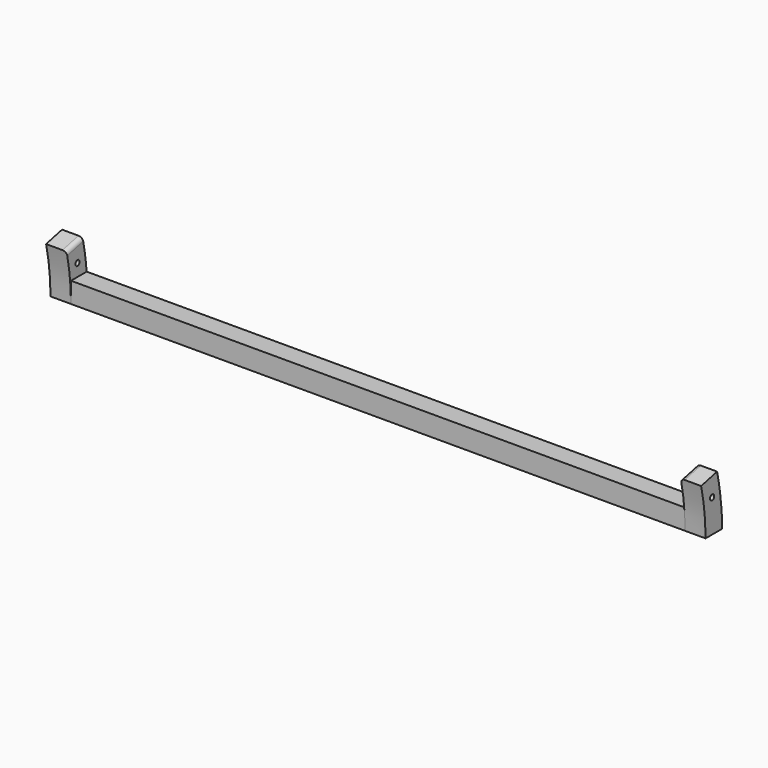
from build123d import *

# Parameters (mm, degrees)
CYLINDER063_R          = 1.3
CYLINDER063_DEPTH      = 331
CYLINDER060_W          = 105
CYLINDER060_H          = 10
CYLINDER060_ANGLE      = 13
CYLINDER059_W          = 115
CYLINDER059_H          = 10
CYLINDER059_ANGLE      = 13
FILLET008_R            = 2
CYLINDER058_W          = 105
CYLINDER058_H          = 352
CYLINDER058_ANGLE      = 13
CYLINDER057_W          = 115
CYLINDER057_H          = 340
CYLINDER057_ANGLE      = 13
BOX102_W               = 320
BOX102_H               = 10
BOX102_DEPTH           = 10
CYLINDER056_W          = 105
CYLINDER056_H          = 10
CYLINDER056_ANGLE      = 13
CYLINDER055_W          = 115
CYLINDER055_H          = 10
CYLINDER055_ANGLE      = 13
FILLET009_R            = 2
CUT074_PLACEMENT_ANGLE = 180


with BuildPart() as cilindro063:
    # Cylinder063 → Cylinder063 (new body)
    with BuildSketch(Plane(origin=(5, 6, 178), x_dir=(0, 0, -1), z_dir=(1, 0, 0))):
        Circle(CYLINDER063_R)
    extrude(amount=CYLINDER063_DEPTH)


with BuildPart() as cilindro060:
    # Cylinder060 → Cylinder060 (revolve)
    with BuildSketch(Plane(origin=(20, 115, 162), x_dir=(0, -1, 0), z_dir=(0, 0, -1))):
        with Locations((52.5, 5)):
            Rectangle(CYLINDER060_W, CYLINDER060_H)
    revolve(axis=Axis((20, 115, 162), (-1, 0, 0)), revolution_arc=CYLINDER060_ANGLE)


with BuildPart() as fillet008:
    # Cylinder059 → Cylinder059 (revolve)
    with BuildSketch(Plane(origin=(20, 115, 162), x_dir=(0, -1, 0), z_dir=(0, 0, -1))):
        with Locations((57.5, 5)):
            Rectangle(CYLINDER059_W, CYLINDER059_H)
    revolve(axis=Axis((20, 115, 162), (-1, 0, 0)), revolution_arc=CYLINDER059_ANGLE)

    # Cut071: cut Cilindro060
    add(cilindro060.part, mode=Mode.SUBTRACT)

    # Fillet008
    fillet008_edges = [fillet008.edges().sort_by_distance(p)[0] for p in [
        (20, 7.819293, 186.744616),
    ]]
    fillet(fillet008_edges, radius=FILLET008_R)


with BuildPart() as cilindro058:
    # Cylinder058 → Cylinder058 (revolve)
    with BuildSketch(Plane(origin=(340, 115, 162), x_dir=(0, -1, 0), z_dir=(0, 0, -1))):
        with Locations((52.5, 176)):
            Rectangle(CYLINDER058_W, CYLINDER058_H)
    revolve(axis=Axis((340, 115, 162), (-1, 0, 0)), revolution_arc=CYLINDER058_ANGLE)


with BuildPart() as cut069:
    # Cylinder057 → Cylinder057 (revolve)
    with BuildSketch(Plane(origin=(340, 115, 162), x_dir=(0, -1, 0), z_dir=(0, 0, -1))):
        with Locations((57.5, 170)):
            Rectangle(CYLINDER057_W, CYLINDER057_H)
    revolve(axis=Axis((340, 115, 162), (-1, 0, 0)), revolution_arc=CYLINDER057_ANGLE)

    # Cut069: cut Cilindro058
    add(cilindro058.part, mode=Mode.SUBTRACT)


with BuildPart() as cut069_1:
    # Cut069 placement: moved
    add(cut069.part.moved(Location((0, -10.1, 0))))


with BuildPart() as cut070:
    # Box102 → Box102 (new body)
    with BuildSketch(Plane(origin=(10, 0, 162), x_dir=(1, 0, 0), z_dir=(0, 0, 1))):
        with Locations((160, 5)):
            Rectangle(BOX102_W, BOX102_H)
    extrude(amount=BOX102_DEPTH)

    # Cut070: cut Cut069
    add(cut069_1.part, mode=Mode.SUBTRACT)


with BuildPart() as cilindro056:
    # Cylinder056 → Cylinder056 (revolve)
    with BuildSketch(Plane(origin=(20, 115, 162), x_dir=(0, -1, 0), z_dir=(0, 0, -1))):
        with Locations((52.5, 5)):
            Rectangle(CYLINDER056_W, CYLINDER056_H)
    revolve(axis=Axis((20, 115, 162), (-1, 0, 0)), revolution_arc=CYLINDER056_ANGLE)


with BuildPart() as cut074:
    # Cylinder055 → Cylinder055 (revolve)
    with BuildSketch(Plane(origin=(20, 115, 162), x_dir=(0, -1, 0), z_dir=(0, 0, -1))):
        with Locations((57.5, 5)):
            Rectangle(CYLINDER055_W, CYLINDER055_H)
    revolve(axis=Axis((20, 115, 162), (-1, 0, 0)), revolution_arc=CYLINDER055_ANGLE)

    # Cut068: cut Cilindro056
    add(cilindro056.part, mode=Mode.SUBTRACT)


with BuildPart() as cut074_1:
    # Cut068 placement: moved
    add(cut074.part.moved(Location((310, 0, 0))))

    # Fillet009
    fillet009_edges = [cut074_1.edges().sort_by_distance(p)[0] for p in [
        (320, 7.819293, 186.744616),
    ]]
    fillet(fillet009_edges, radius=FILLET009_R)

    # Fusion016: union Fillet008, Cut070
    add(fillet008.part)
    add(cut070.part)

    # Cut074: cut Cilindro063
    add(cilindro063.part, mode=Mode.SUBTRACT)


with BuildPart() as cut074_2:
    # Cut074 placement: moved
    add(cut074_1.part.moved(Location((340, 230, 0))).rotate(Axis((340, 230, 0), (0, 0, 1)), CUT074_PLACEMENT_ANGLE))


solid = cut074_2.part
